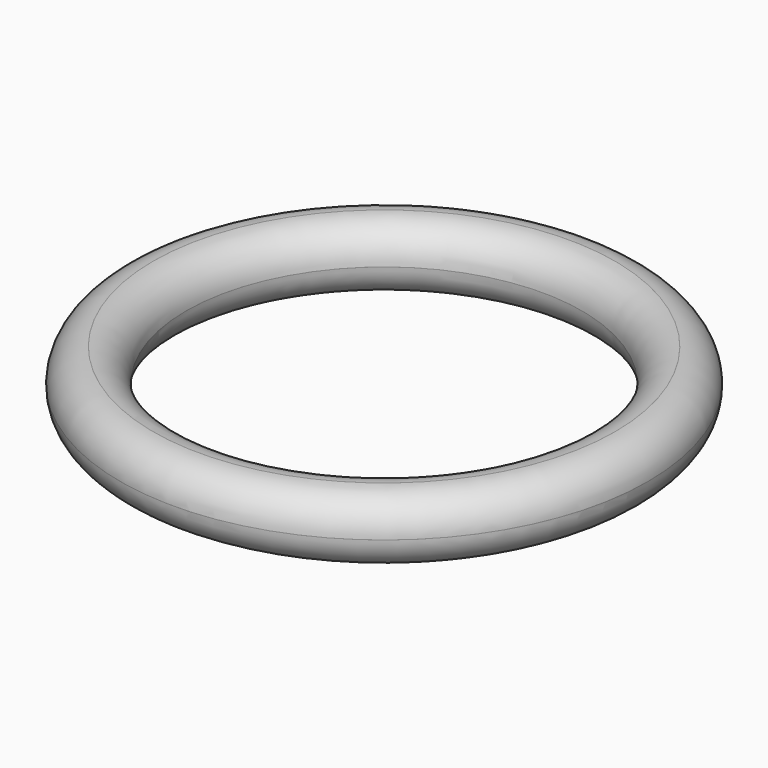
from build123d import *

# Parameters (mm, degrees)
SKETCH_R   = 10
SKETCH_R_2 = 7.5
PAD_DEPTH  = 2.5
FILLET_R   = 1.249


with BuildPart() as part:
    # Sketch → Pad (new body)
    with BuildSketch(Plane.XY):
        Circle(SKETCH_R)
        Circle(SKETCH_R_2, mode=Mode.SUBTRACT)
    extrude(amount=PAD_DEPTH)

    # Fillet
    fillet_edges = [part.edges().sort_by_distance(p)[0] for p in [
        (-7.5, 0, 2.5),
        (-7.5, 0, 0),
        (-10, 0, 2.5),
        (-10, 0, 0),
    ]]
    fillet(fillet_edges, radius=FILLET_R)


solid = part.part
